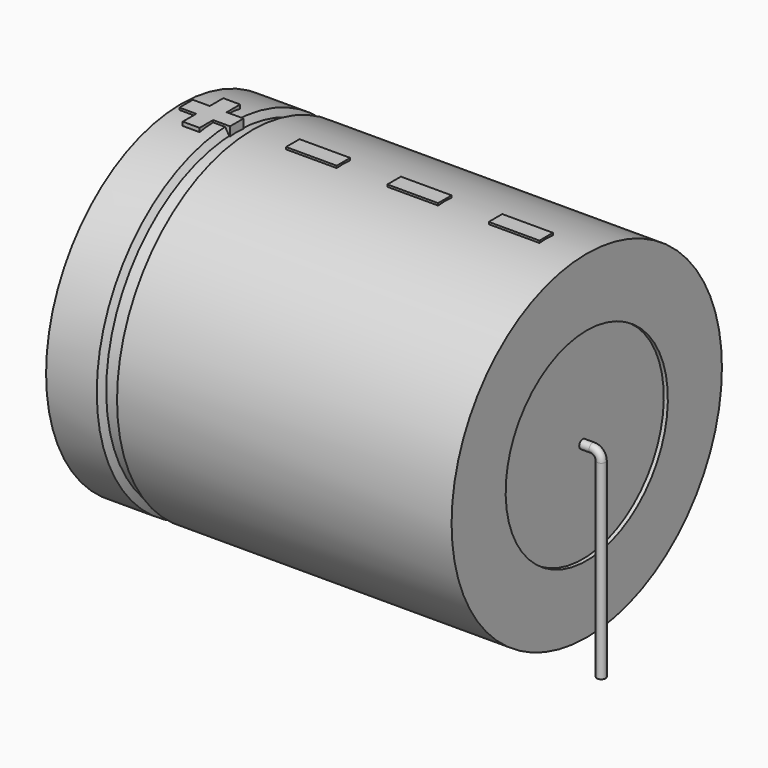
from build123d import *

# Parameters (mm, degrees)
SKETCH_R    = 0.45
SKETCH004_W = 5.25
SKETCH004_H = 1.75
PAD_DEPTH   = 17.675


with BuildPart() as sweep_body:
    # Sweep: sweep along a path in Sketch001
    with BuildLine(Plane.XZ) as sweep_path:
        Line((0, -3), (0, 16.7))
        ThreePointArc((0, 16.7), (0.263608, 17.3364), (0.900012, 17.6))
        Line((0.900012, 17.6), (44.1, 17.6))
        ThreePointArc((44.1, 17.6), (44.736396, 17.336396), (45, 16.7))
        Line((45, 16.7), (45, -3))
    # Sketch → Sweep (sweep)
    with BuildSketch(Plane.XY.offset(-2)):
        Circle(SKETCH_R)
    sweep(path=sweep_path.line)


with BuildPart() as revolution:
    # Sketch002 → Revolution (revolve)
    with BuildSketch(Plane.XZ):
        Polygon((1.5, 35.1), (1.5, 28.1), (43.5, 28.1), (43.5, 35.1), (8.85, 35.1), (8.43, 34.4), (7.17, 34.4), (6.75, 35.1), align=None)
    revolve(axis=Axis((6.97588, 0, 17.6), (1, 0, 0)))


with BuildPart() as revolution001:
    # Sketch003 → Revolution001 (revolve)
    with BuildSketch(Plane.XZ):
        Polygon((1.92, 34.4), (4.02, 34.4), (4.02, 19.35), (40.98, 19.35), (40.98, 34.4), (43.08, 34.4), (43.08, 17.6), (1.92, 17.6), align=None)
    revolve(axis=Axis((6.97588, 0, 17.6), (1, 0, 0)))


with BuildPart() as pad:
    # Sketch004 → Pad (new body)
    with BuildSketch(Plane.XY.offset(17.6)):
        with Locations((36.675, 0)):
            Rectangle(SKETCH004_W, SKETCH004_H)
        with Locations((26.175, 0)):
            Rectangle(SKETCH004_W, SKETCH004_H)
        with Locations((15.675, 0)):
            Rectangle(SKETCH004_W, SKETCH004_H)
        Polygon((3.754, 0.875), (2.004, 0.875), (2.004, -0.875), (3.754, -0.875), (3.754, -2.625), (5.504, -2.625), (5.504, -0.875), (7.254, -0.875), (7.254, 0.875), (5.504, 0.875), (5.504, 2.625), (3.754, 2.625), align=None)
    extrude(amount=PAD_DEPTH)


solid = Compound([sweep_body.part, revolution.part, revolution001.part, pad.part])
